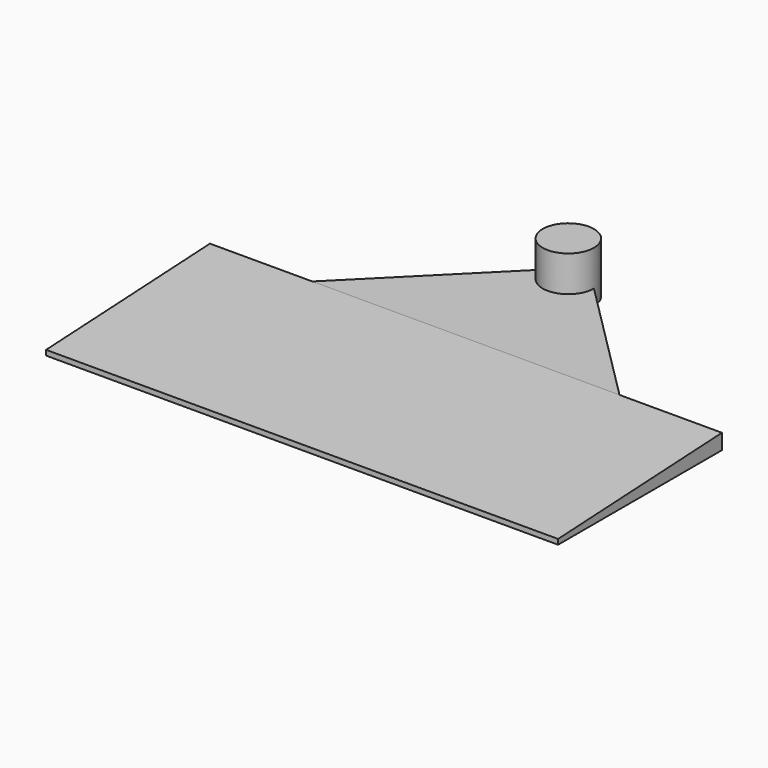
from build123d import *

# Parameters (mm, degrees)
F1_DEPTH = 100
F3_DEPTH = 3
F4_DEPTH = 10


with BuildPart() as f1:
    # F0 (on Right) → F1 (new body)
    with BuildSketch(Plane.YZ):
        Polygon((0, 1), (0, 0), (40, 0), (40, 3), align=None)
    extrude(amount=F1_DEPTH)

    # F2 (on face) → F3 (join)
    with BuildSketch(Plane(origin=(0, 0, 0), x_dir=(1, 0, 0), z_dir=(0, 0, -1))):
        with BuildLine():
            ThreePointArc((45, -65), (50, -60), (55, -65))
            Line((55, -65), (55, -40))
            Line((55, -40), (45, -40))
            Line((45, -40), (45, -65))
        make_face()
        Polygon((20, -40), (45, -65), (45, -40), align=None)
        Polygon((55, -40), (55, -65), (80, -40), align=None)
    extrude(amount=-F3_DEPTH)

    # F2 (on face) → F4 (join)
    with BuildSketch(Plane(origin=(0, 0, 0), x_dir=(1, 0, 0), z_dir=(0, 0, -1))):
        with BuildLine():
            Line((45, -65), (55, -65))
            ThreePointArc((55, -65), (50, -60), (45, -65))
        make_face()
        with BuildLine():
            ThreePointArc((45, -65), (50, -70), (55, -65))
            Line((55, -65), (45, -65))
        make_face()
    extrude(amount=-F4_DEPTH)


solid = f1.part
